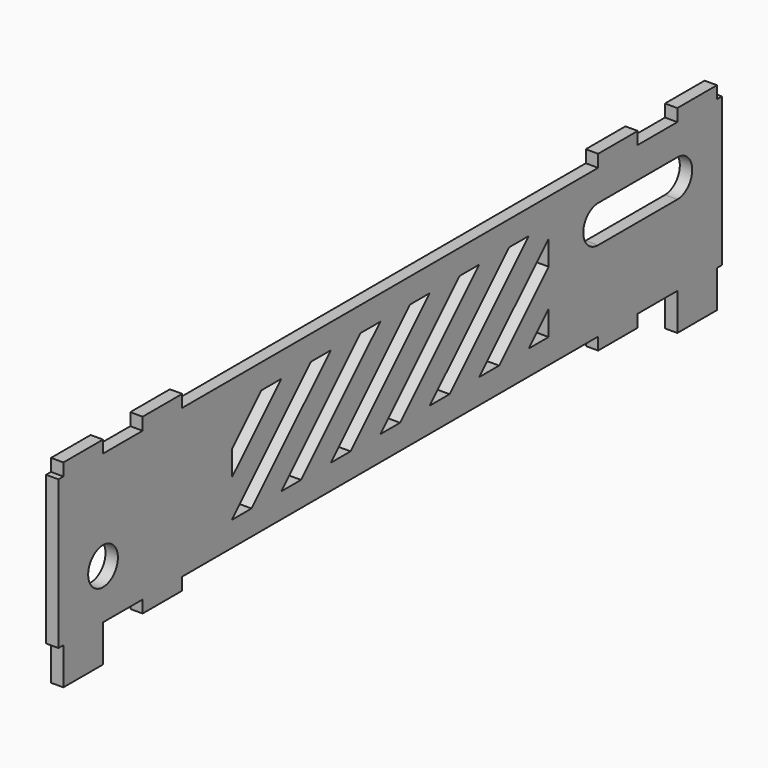
from build123d import *

# Parameters (mm, degrees)
F1_R     = 7.5
F1_W     = 20
F1_H     = 15
F1_H_2   = 5
F2_DEPTH = 5


with BuildPart() as f2:
    # F1 (on Right) → F2 (new body)
    with BuildSketch(Plane.YZ):
        Polygon((0, 60), (0, 0), (2.5, 0), (22.5, 0), (42.5, 0), (62.5, 0), (272.5, 0), (292.5, 0), (312.5, 0), (332.5, 0), (335, 0), (335, 60), (332.5, 60), (312.5, 60), (292.5, 60), (272.5, 60), (62.5, 60), (42.5, 60), (22.5, 60), (2.5, 60), align=None)
        with Locations((22.5, 20)):
            Circle(F1_R, mode=Mode.SUBTRACT)
        Polygon((247.5, 10), (237.5, 10), (247.5, 20), align=None, mode=Mode.SUBTRACT)
        Polygon((97.5, 10), (87.5, 10), (127.5, 50), (137.5, 50), align=None, mode=Mode.SUBTRACT)
        Polygon((122.5, 10), (112.5, 10), (152.5, 50), (162.5, 50), align=None, mode=Mode.SUBTRACT)
        Polygon((147.5, 10), (137.5, 10), (177.5, 50), (187.5, 50), align=None, mode=Mode.SUBTRACT)
        Polygon((102.5, 50), (112.5, 50), (87.5, 25), (87.5, 35), align=None, mode=Mode.SUBTRACT)
        Polygon((172.5, 10), (162.5, 10), (202.5, 50), (212.5, 50), align=None, mode=Mode.SUBTRACT)
        Polygon((222.5, 10), (212.5, 10), (247.5, 45), (247.5, 35), align=None, mode=Mode.SUBTRACT)
        Polygon((197.5, 10), (187.5, 10), (227.5, 50), (237.5, 50), align=None, mode=Mode.SUBTRACT)
        with BuildLine():
            Line((312.5, 32.5), (272.5, 32.5))
            ThreePointArc((272.5, 32.5), (265, 40), (272.5, 47.5))
            Line((272.5, 47.5), (312.5, 47.5))
            ThreePointArc((312.5, 47.5), (320, 40), (312.5, 32.5))
        make_face(mode=Mode.SUBTRACT)
        with Locations((12.5, -7.5)):
            Rectangle(F1_W, F1_H)
        with Locations((12.5, 62.5)):
            Rectangle(F1_W, F1_H_2)
        with Locations((52.5, -2.5)):
            Rectangle(F1_W, F1_H_2)
        with Locations((52.5, 62.5)):
            Rectangle(F1_W, F1_H_2)
        with Locations((282.5, -2.5)):
            Rectangle(F1_W, F1_H_2)
        with Locations((282.5, 62.5)):
            Rectangle(F1_W, F1_H_2)
        with Locations((322.5, -7.5)):
            Rectangle(F1_W, F1_H)
        with Locations((322.5, 62.5)):
            Rectangle(F1_W, F1_H_2)
    extrude(amount=F2_DEPTH)


solid = f2.part
